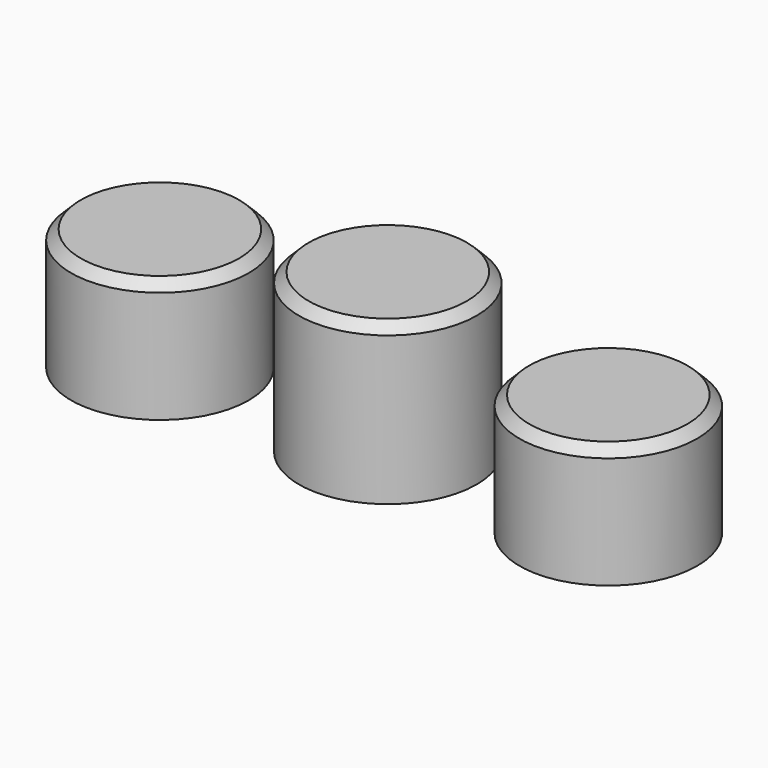
from build123d import *

# Parameters (mm, degrees)
F0_R       = 4.6355
F1_DEPTH   = 6.35
F2_DEPTH   = 8.255
F3_SIZE    = 0.508
F3_2_SIZE  = 0.508
F3_3_SIZE  = 0.508
F4_D       = 3.302
F4_DEPTH   = 5.08
F4_TIP     = 0.992020882
F4_2_D     = 3.302
F4_2_DEPTH = 5.08
F4_2_TIP   = 0.992020882
F4_3_D     = 3.302
F4_3_DEPTH = 5.08
F4_3_TIP   = 0.992020882


with BuildPart() as f1:
    # F0 (on Top) → F1 (new body)
    with BuildSketch(Plane.XY):
        with Locations((-11.8854027241, 0)):
            Circle(F0_R)
    extrude(amount=F1_DEPTH)

    # F3
    f3_edges = [f1.edges().sort_by_distance(p)[0] for p in [
        (-16.520903, 0, 6.35),
    ]]
    chamfer(f3_edges, length=F3_SIZE)

    # F4
    with Locations(Plane(origin=(0, 0, 0), x_dir=(1, 0, 0), z_dir=(0, 0, -1))):
        with Locations((-11.8854027241, 0), (0, 0), (11.501041241, 0)):
            Hole(F4_D / 2, depth=F4_DEPTH)
            with Locations((0, 0, -(F4_DEPTH + F4_TIP / 2))):  # 118° drill point
                Cone(0, F4_D / 2, F4_TIP, mode=Mode.SUBTRACT)


with BuildPart() as f1b:
    # F0 (on Top) → F1, piece 2 (new body)
    with BuildSketch(Plane.XY):
        with Locations((11.501041241, 0)):
            Circle(F0_R)
    extrude(amount=F1_DEPTH)

    # F3#3
    f3_3_edges = [f1b.edges().sort_by_distance(p)[0] for p in [
        (6.865541, 0, 6.35),
    ]]
    chamfer(f3_3_edges, length=F3_3_SIZE)

    # F4#2
    with Locations(Plane(origin=(0, 0, 0), x_dir=(1, 0, 0), z_dir=(0, 0, -1))):
        with Locations((-11.8854027241, 0), (0, 0), (11.501041241, 0)):
            Hole(F4_2_D / 2, depth=F4_2_DEPTH)
            with Locations((0, 0, -(F4_2_DEPTH + F4_2_TIP / 2))):  # 118° drill point
                Cone(0, F4_2_D / 2, F4_2_TIP, mode=Mode.SUBTRACT)


with BuildPart() as f2:
    # F0 (on Top) → F2 (new body)
    with BuildSketch(Plane.XY):
        with BuildLine():
            ThreePointArc((-4.6355, 0), (0, -4.6355), (4.6355, 0))
            Line((4.6355, 0), (-4.6355, 0))
        make_face()
        with BuildLine():
            Line((-4.6355, 0), (4.6355, 0))
            ThreePointArc((4.6355, 0), (0, 4.6355), (-4.6355, 0))
        make_face()
    extrude(amount=F2_DEPTH)

    # F3#2
    f3_2_edges = [f2.edges().sort_by_distance(p)[0] for p in [
        (-4.6355, 0, 8.255),
    ]]
    chamfer(f3_2_edges, length=F3_2_SIZE)

    # F4#3
    with Locations(Plane(origin=(0, 0, 0), x_dir=(1, 0, 0), z_dir=(0, 0, -1))):
        with Locations((-11.8854027241, 0), (0, 0), (11.501041241, 0)):
            Hole(F4_3_D / 2, depth=F4_3_DEPTH)
            with Locations((0, 0, -(F4_3_DEPTH + F4_3_TIP / 2))):  # 118° drill point
                Cone(0, F4_3_D / 2, F4_3_TIP, mode=Mode.SUBTRACT)


solid = Compound([f1.part, f1b.part, f2.part])
